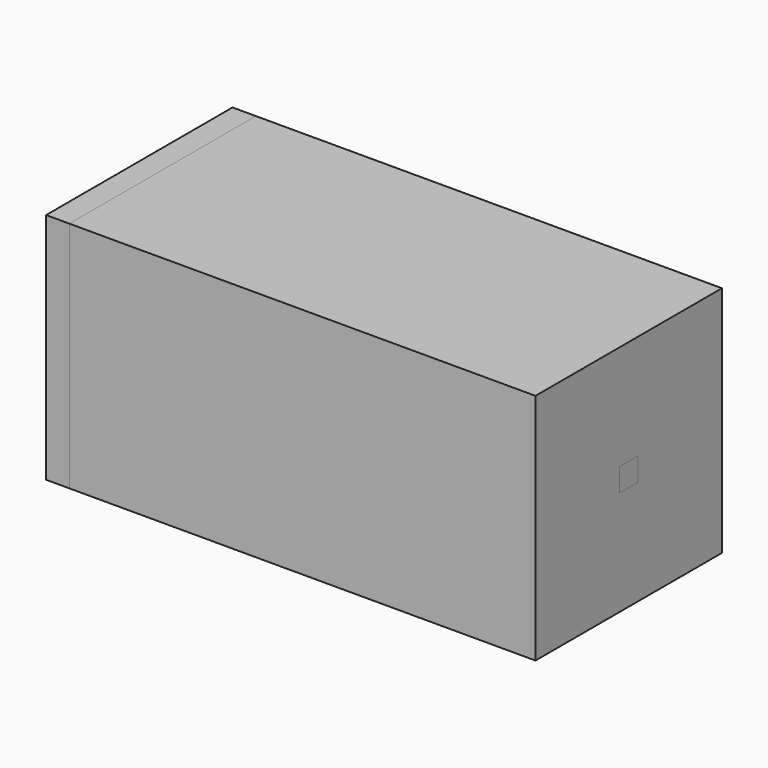
from build123d import *

# Parameters (mm, degrees)
F0_W      = 100
F0_H      = 50
F1_DEPTH  = 50
F1_FACE_W = 50
F1_FACE_H = 50
F3_DEPTH  = 5
F4_W      = 5
F4_H      = 5
F5_DEPTH  = 10


with BuildPart() as f1:
    # F0 (on Front) → F1 (new body)
    with BuildSketch(Plane.XZ):
        with Locations((50, 25)):
            Rectangle(F0_W, F0_H)
    extrude(amount=F1_DEPTH)


with BuildPart() as f3:
    # F1_face (on face) → F3 (new body)
    with BuildSketch(Plane(origin=(0, -25, 25), x_dir=(0, -1, 0), z_dir=(-1, 0, 0))):
        Rectangle(F1_FACE_W, F1_FACE_H)
    extrude(amount=F3_DEPTH)


with BuildPart() as f5:
    # F4 (on face) → F5 (new body)
    with BuildSketch(Plane.YZ.offset(100)):
        with Locations((-25, 25)):
            Rectangle(F4_W, F4_H)
    extrude(amount=-F5_DEPTH)


solid = Compound([f1.part, f3.part, f5.part])
